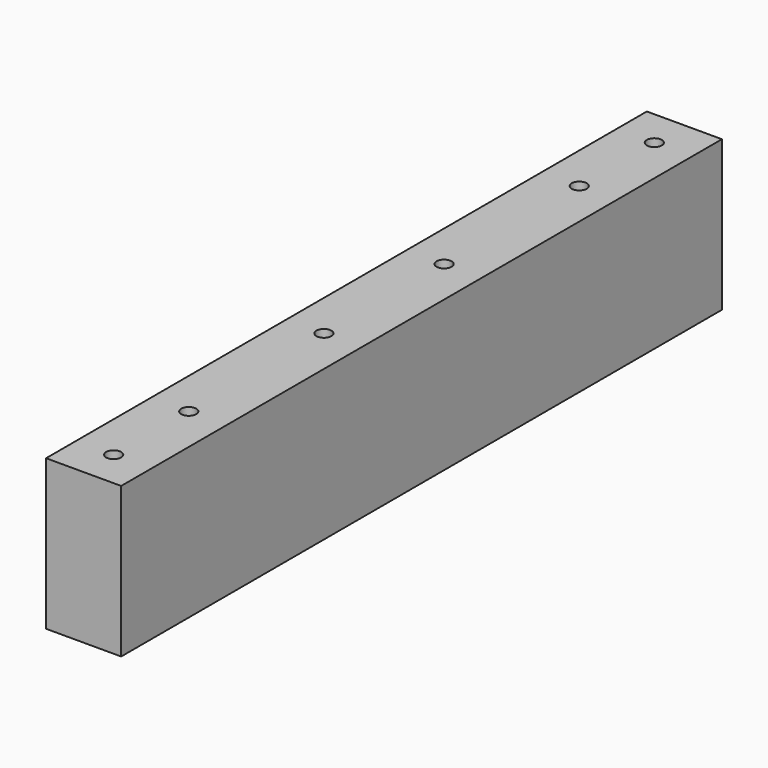
from build123d import *

# Parameters (mm, degrees)
F0_W     = 100
F0_H     = 200
F1_DEPTH = 1000
F2_R     = 10
F3_DEPTH = 125


with BuildPart() as f1:
    # F0 (on Front) → F1 (new body)
    with BuildSketch(Plane.XZ):
        with Locations((50, 100)):
            Rectangle(F0_W, F0_H)
    extrude(amount=F1_DEPTH)

    # F2 (on face) → F3 (cut)
    with BuildSketch(Plane.XY.offset(200)):
        with Locations((50, -50)):
            Circle(F2_R)
        with Locations((50, -175)):
            Circle(F2_R)
        with Locations((50, -400)):
            Circle(F2_R)
        with Locations((50, -600)):
            Circle(F2_R)
        with Locations((50, -950)):
            Circle(F2_R)
        with Locations((50, -825)):
            Circle(F2_R)
    extrude(amount=-F3_DEPTH, mode=Mode.SUBTRACT)


solid = f1.part
